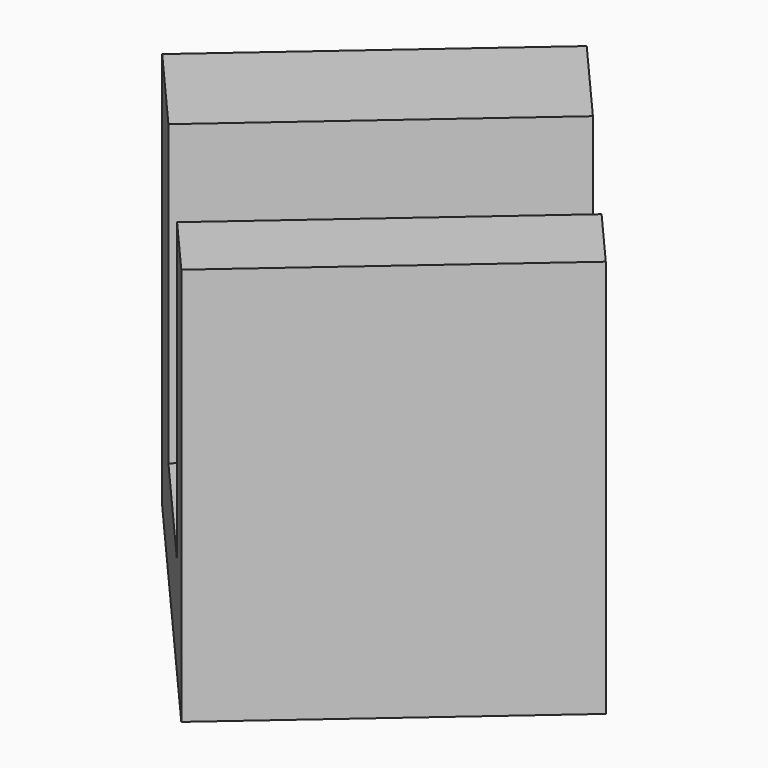
from build123d import *

# Parameters (mm, degrees)
CYLINDER046_R               = 1.5
CYLINDER046_DEPTH           = 10
CYLINDER046_ROLL_ANGLE      = -90
CYLINDER046_PLACEMENT_ANGLE = 41
BOX014_W                    = 5
BOX014_H                    = 11
BOX014_DEPTH                = 9
BOX014_PLACEMENT_ANGLE      = 49
BOX013_W                    = 11
BOX013_H                    = 10
BOX013_DEPTH                = 12
BOX013_PLACEMENT_ANGLE      = 49


with BuildPart() as cylinder046:
    # Cylinder046 → Cylinder046 (new body)
    with BuildSketch(Plane.XY):
        Circle(CYLINDER046_R)
    extrude(amount=CYLINDER046_DEPTH)


with BuildPart() as cylinder046_1:
    # Cylinder046 roll: moved
    add(cylinder046.part.rotate(Axis((0, 0, 0), (1, 0, 0)), CYLINDER046_ROLL_ANGLE))


with BuildPart() as cylinder046_2:
    # Cylinder046 placement: moved
    add(cylinder046_1.part.moved(Location((12, 36, -6))).rotate(Axis((12, 36, -6), (0, 0, 1)), CYLINDER046_PLACEMENT_ANGLE))


with BuildPart() as box014:
    # Box014 → Box014 (new body)
    with BuildSketch(Plane.XY):
        with Locations((2.5, 5.5)):
            Rectangle(BOX014_W, BOX014_H)
    extrude(amount=BOX014_DEPTH)


with BuildPart() as box014_1:
    # Box014 placement: moved
    add(box014.part.moved(Location((8, 32, -10))).rotate(Axis((8, 32, -10), (0, 0, -1)), BOX014_PLACEMENT_ANGLE))


with BuildPart() as cut042:
    # Box013 → Box013 (new body)
    with BuildSketch(Plane.XY):
        with Locations((5.5, 5)):
            Rectangle(BOX013_W, BOX013_H)
    extrude(amount=BOX013_DEPTH)


with BuildPart() as cut042_1:
    # Box013 placement: moved
    add(cut042.part.moved(Location((6, 35, -13))).rotate(Axis((6, 35, -13), (0, 0, -1)), BOX013_PLACEMENT_ANGLE))

    # Cut041: cut Box014
    add(box014_1.part, mode=Mode.SUBTRACT)

    # Cut042: cut Cylinder046
    add(cylinder046_2.part, mode=Mode.SUBTRACT)


solid = cut042_1.part
